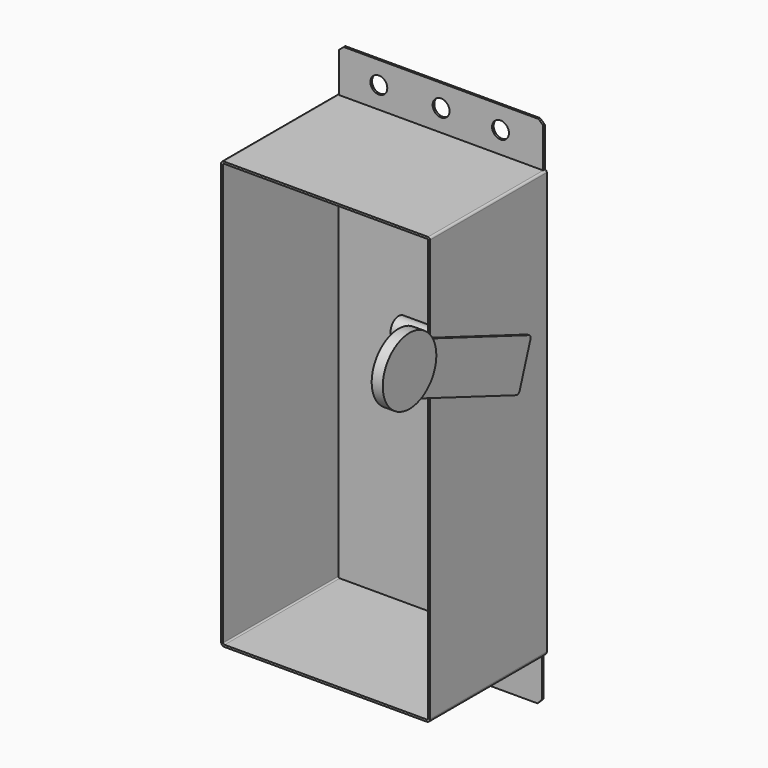
from build123d import *

# Parameters (mm, degrees)
F1_DEPTH      = 137.16
F2_T          = -1.8796
F0_R          = 7.9375
F3_DEPTH      = 1.8796
F4_DEPTH      = 1.8796
F5_R          = 9.525
F6_DEPTH      = 12.7
F6_DEPTH_BACK = 87.884
F7_START      = 10.922
F7_DEPTH      = 1.778
F8_START      = 6.604
F8_DEPTH      = 10.414


with BuildPart() as f1:
    # F0 (on Front) → F1 (new body)
    with BuildSketch(Plane.XZ):
        with BuildLine():
            Line((-2.0074219073, 192.9593032377), (-194.0428123108, 192.9593032377))
            ThreePointArc((-194.0428123108, 192.9593032377), (-195.7494105797, 192.2524070892), (-196.4563067282, 190.5458088203))
            Line((-196.4563067282, 190.5458088203), (-196.4563067282, -205.4396967623))
            ThreePointArc((-196.4563067282, -205.4396967623), (-195.5263707585, -207.6847607926), (-193.2813067282, -208.6146967623))
            Line((-193.2813067282, -208.6146967623), (-3.2893067282, -208.6146967623))
            ThreePointArc((-3.2893067282, -208.6146967623), (-1.044242698, -207.6847607926), (-0.1143067282, -205.4396967623))
            Line((-0.1143067282, -205.4396967623), (-0.1143067282, 191.0661880586))
            ThreePointArc((-0.1143067282, 191.0661880586), (-0.6687873266, 192.4048226393), (-2.0074219073, 192.9593032377))
        make_face()
    extrude(amount=F1_DEPTH)

    # F2
    f2_openings = [f1.faces().sort_by_distance(p)[0] for p in [
        (-98.284712, -137.16, -7.821846),
    ]]
    offset(amount=F2_T, openings=f2_openings)

    # F0 (on Front) → F3 (join)
    with BuildSketch(Plane.XZ):
        Polygon((-194.0428123108, 230.2024903454), (-194.0428123108, 192.9593032377), (-2.0074219073, 192.9593032377), (-2.0074219073, 230.1279707811), (-6.4590077951, 234.1073032377), (-189.5257181129, 234.1073032377), align=None)
        with Locations((-156.5030515194, 213.3844196796)):
            Circle(F0_R, mode=Mode.SUBTRACT)
        with Locations((-97.992362954, 213.3844196796)):
            Circle(F0_R, mode=Mode.SUBTRACT)
        with Locations((-42.1637892723, 213.3844196796)):
            Circle(F0_R, mode=Mode.SUBTRACT)
    extrude(amount=F3_DEPTH)

    # F0 (on Front) → F4 (join)
    with BuildSketch(Plane.XZ):
        Polygon((-3.2893067282, -208.6146967623), (-193.2813067282, -208.6146967623), (-193.2813067282, -245.5406295129), (-189.0592394788, -249.7626967623), (-7.5113739777, -249.7626967623), (-3.2893067282, -245.5406295129), align=None)
        with Locations((-156.5030515194, -230.1257103682)):
            Circle(F0_R, mode=Mode.SUBTRACT)
        with Locations((-97.992362954, -230.1257103682)):
            Circle(F0_R, mode=Mode.SUBTRACT)
        with Locations((-42.1637892723, -230.1257103682)):
            Circle(F0_R, mode=Mode.SUBTRACT)
    extrude(amount=F4_DEPTH)


with BuildPart() as f6:
    # F5 (on Right) → F6 (new body, two sides)
    with BuildSketch(Plane.YZ) as f6_sk:
        with Locations((-64.3898770213, 60.5143420398)):
            Circle(F5_R)
    extrude(amount=F6_DEPTH)
    extrude(f6_sk.sketch, amount=-F6_DEPTH_BACK)

    # F5 (on Right) → F7 (join)
    with BuildSketch(Plane.YZ.offset(F7_START)):
        with BuildLine():
            Line((-170.8932016047, 77.6299208061), (-52.1039823193, 32.1673765925))
            ThreePointArc((-52.1039823193, 32.1673765925), (-49.6194014967, 32.2588096218), (-47.9624834755, 34.1124882708))
            Line((-47.9624834755, 34.1124882708), (-35.1935953372, 71.7459684203))
            ThreePointArc((-35.1935953372, 71.7459684203), (-35.3264211342, 74.1158419365), (-37.0653924768, 75.7313671901))
            Line((-37.0653924768, 75.7313671901), (-154.4293258485, 120.6484315675))
            ThreePointArc((-154.4293258485, 120.6484315675), (-152.0360599698, 113.9122285626), (-151.2243511721, 106.8097443975))
            ThreePointArc((-151.2243511721, 106.8097443975), (-156.6006711693, 89.2148176985), (-170.8932016047, 77.6299208061))
        make_face()
        with Locations((-64.3898770213, 60.5143420398)):
            Circle(F5_R, mode=Mode.SUBTRACT)
    extrude(amount=F7_DEPTH)

    # F5 (on Right) → F8 (join)
    with BuildSketch(Plane.YZ.offset(F8_START)):
        with BuildLine():
            ThreePointArc((-154.4293258485, 120.6484315675), (-212.1035088949, 118.0615183867), (-170.8932016047, 77.6299208061))
            ThreePointArc((-170.8932016047, 77.6299208061), (-156.6006711693, 89.2148176985), (-151.2243511721, 106.8097443975))
            ThreePointArc((-151.2243511721, 106.8097443975), (-152.0360599698, 113.9122285626), (-154.4293258485, 120.6484315675))
        make_face()
    extrude(amount=F8_DEPTH)


solid = Compound([f1.part, f6.part])
